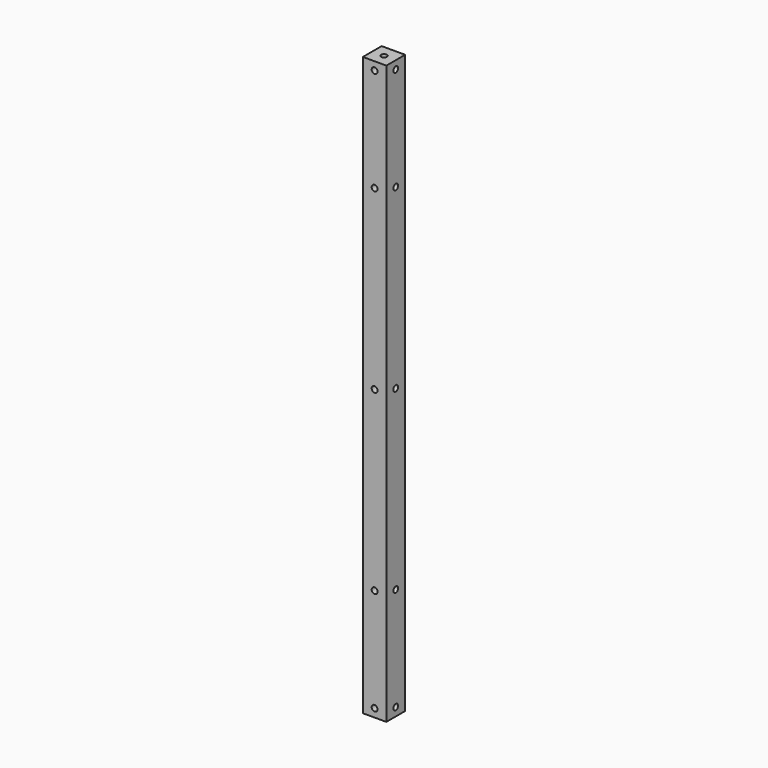
from build123d import *

# Parameters (mm, degrees)
F0_W     = 20
F0_H     = 20
F0_R     = 2.5
F1_DEPTH = 492
F2_R     = 2.5
F3_DEPTH = 20.001
F4_R     = 2.5
F5_DEPTH = 20.001


with BuildPart() as f1:
    # F0 (on Top) → F1 (new body)
    with BuildSketch(Plane.XY):
        Rectangle(F0_W, F0_H)
        Circle(F0_R, mode=Mode.SUBTRACT)
    extrude(amount=F1_DEPTH)

    # F2 (on face) → F3 (cut, through all)
    with BuildSketch(Plane.YZ.offset(10)):
        with Locations((0, 7)):
            Circle(F2_R)
        with Locations((0, 485)):
            Circle(F2_R)
        with Locations((0, 246)):
            Circle(F2_R)
        with Locations((0, 95.127)):
            Circle(F2_R)
        with Locations((0, 396.873)):
            Circle(F2_R)
    extrude(amount=-F3_DEPTH, mode=Mode.SUBTRACT)

    # F4 (on face) → F5 (cut, through all)
    with BuildSketch(Plane.XZ.offset(10)):
        with Locations((0, 246)):
            Circle(F4_R)
        with Locations((0, 485)):
            Circle(F4_R)
        with Locations((0, 7)):
            Circle(F4_R)
        with Locations((0, 95.127)):
            Circle(F4_R)
        with Locations((0, 396.873)):
            Circle(F4_R)
    extrude(amount=-F5_DEPTH, mode=Mode.SUBTRACT)


solid = f1.part
